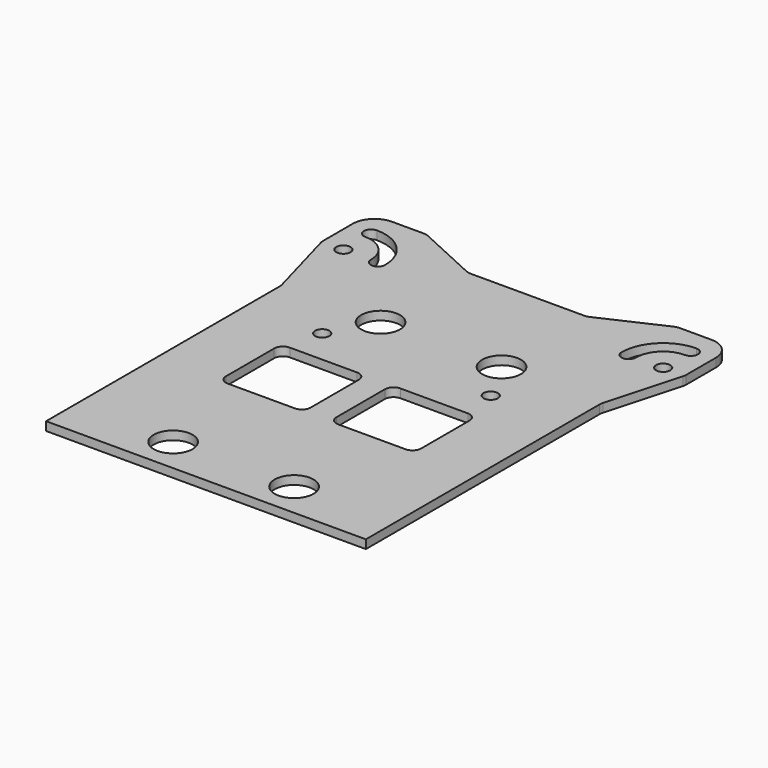
from build123d import *

# Parameters (mm, degrees)
F0_R     = 4.5
F0_R_2   = 1.65
F1_DEPTH = 2


with BuildPart() as f1:
    # F0 (on Top) → F1 (new body)
    with BuildSketch(Plane.XY):
        with BuildLine():
            Line((-29.655639, 60.219758), (-37, 60.219758))
            ThreePointArc((-37, 60.219758), (-40.535534, 58.755292), (-42, 55.219758))
            Line((-42, 55.219758), (-42, 46.628683))
            ThreePointArc((-42, 46.628683), (-41.972513, 46.223505), (-41.890554, 45.825751))
            Line((-41.890554, 45.825751), (-37.109446, 28.613764))
            ThreePointArc((-37.109446, 28.613764), (-37.027487, 28.216011), (-37, 27.810833))
            Line((-37, 27.810833), (-37, -39.780242))
            Line((-37, -39.780242), (37, -39.780242))
            Line((37, -39.780242), (37, 27.810833))
            ThreePointArc((37, 27.810833), (37.027487, 28.216011), (37.109446, 28.613764))
            Line((37.109446, 28.613764), (41.890554, 45.825751))
            ThreePointArc((41.890554, 45.825751), (41.972513, 46.223505), (42, 46.628683))
            Line((42, 46.628683), (42, 55.219758))
            ThreePointArc((42, 55.219758), (40.535534, 58.755292), (37, 60.219758))
            Line((37, 60.219758), (29.655639, 60.219758))
            ThreePointArc((29.655639, 60.219758), (29.015118, 60.150582), (28.404136, 59.946246))
            Line((28.404136, 59.946246), (14.345864, 53.493269))
            ThreePointArc((14.345864, 53.493269), (13.734882, 53.288933), (13.094361, 53.219758))
            Line((13.094361, 53.219758), (0, 53.219758))
            Line((0, 53.219758), (-13.094361, 53.219758))
            ThreePointArc((-13.094361, 53.219758), (-13.734882, 53.288933), (-14.345864, 53.493269))
            Line((-14.345864, 53.493269), (-28.404136, 59.946246))
            ThreePointArc((-28.404136, 59.946246), (-29.015118, 60.150582), (-29.655639, 60.219758))
        make_face()
        with Locations((-14, -31.780242)):
            Circle(F0_R, mode=Mode.SUBTRACT)
        with BuildLine():
            ThreePointArc((-5, 10.219758), (-3.585786, 9.633971), (-3, 8.219758))
            Line((-3, 8.219758), (-3, -5.780242))
            ThreePointArc((-3, -5.780242), (-3.585786, -7.194456), (-5, -7.780242))
            Line((-5, -7.780242), (-20.6, -7.780242))
            ThreePointArc((-20.6, -7.780242), (-22.014214, -7.194456), (-22.6, -5.780242))
            Line((-22.6, -5.780242), (-22.6, 8.219758))
            ThreePointArc((-22.6, 8.219758), (-22.014214, 9.633971), (-20.6, 10.219758))
            Line((-20.6, 10.219758), (-5, 10.219758))
        make_face(mode=Mode.SUBTRACT)
        with Locations((14, -31.780242)):
            Circle(F0_R, mode=Mode.SUBTRACT)
        with BuildLine():
            Line((3, -5.780242), (3, 8.219758))
            ThreePointArc((3, 8.219758), (3.585786, 9.633971), (5, 10.219758))
            Line((5, 10.219758), (20.6, 10.219758))
            ThreePointArc((20.6, 10.219758), (22.014214, 9.633971), (22.6, 8.219758))
            Line((22.6, 8.219758), (22.6, -5.780242))
            ThreePointArc((22.6, -5.780242), (22.014214, -7.194456), (20.6, -7.780242))
            Line((20.6, -7.780242), (5, -7.780242))
            ThreePointArc((5, -7.780242), (3.585786, -7.194456), (3, -5.780242))
        make_face(mode=Mode.SUBTRACT)
        with Locations((-19.5, 18.219758)):
            Circle(F0_R_2, mode=Mode.SUBTRACT)
        with Locations((-14, 28.219758)):
            Circle(F0_R, mode=Mode.SUBTRACT)
        with Locations((-37, 46.219758)):
            Circle(F0_R_2, mode=Mode.SUBTRACT)
        with BuildLine():
            ThreePointArc((-37, 55.869758), (-30.17642, 53.043338), (-27.35, 46.219758))
            ThreePointArc((-27.35, 46.219758), (-29, 44.569758), (-30.65, 46.219758))
            ThreePointArc((-30.65, 46.219758), (-32.509872, 50.709886), (-37, 52.569758))
            ThreePointArc((-37, 52.569758), (-38.65, 54.219758), (-37, 55.869758))
        make_face(mode=Mode.SUBTRACT)
        with Locations((19.5, 18.219758)):
            Circle(F0_R_2, mode=Mode.SUBTRACT)
        with Locations((14, 28.219758)):
            Circle(F0_R, mode=Mode.SUBTRACT)
        with Locations((37, 46.219758)):
            Circle(F0_R_2, mode=Mode.SUBTRACT)
        with BuildLine():
            ThreePointArc((30.65, 46.219758), (29, 44.569758), (27.35, 46.219758))
            ThreePointArc((27.35, 46.219758), (30.17642, 53.043338), (37, 55.869758))
            ThreePointArc((37, 55.869758), (38.65, 54.219758), (37, 52.569758))
            ThreePointArc((37, 52.569758), (32.509872, 50.709886), (30.65, 46.219758))
        make_face(mode=Mode.SUBTRACT)
    extrude(amount=F1_DEPTH)


solid = f1.part
